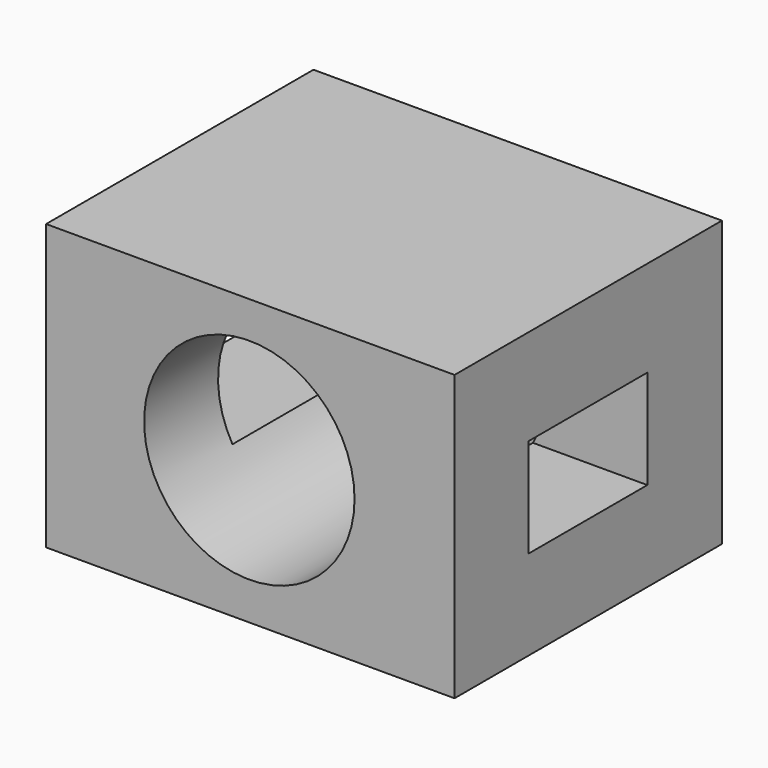
from build123d import *

# Parameters (mm, degrees)
F0_W     = 66
F0_H     = 54
F1_DEPTH = 46
F2_R     = 17
F3_DEPTH = 54
F4_W     = 24
F4_H     = 16
F5_DEPTH = 66


with BuildPart() as f1:
    # F0 (on Top) → F1 (new body)
    with BuildSketch(Plane.XY):
        with Locations((11.851974, -18.000006)):
            Rectangle(F0_W, F0_H)
    extrude(amount=F1_DEPTH)

    # F2 (on face) → F3 (cut)
    with BuildSketch(Plane.XZ.offset(45.000006)):
        with Locations((11.69408, 23.092108)):
            Circle(F2_R)
    extrude(amount=-F3_DEPTH, mode=Mode.SUBTRACT)

    # F4 (on face) → F5 (cut)
    with BuildSketch(Plane.YZ.offset(44.851974)):
        with Locations((-18.06908, 22.506579)):
            Rectangle(F4_W, F4_H)
    extrude(amount=-F5_DEPTH, mode=Mode.SUBTRACT)


solid = f1.part
